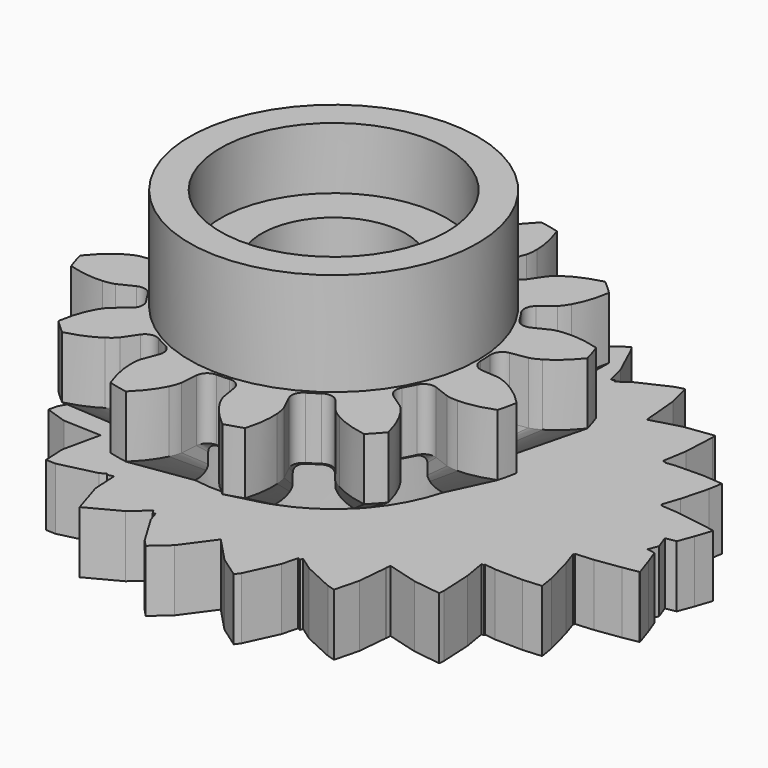
from build123d import *

# Parameters (mm, degrees)
CYLINDER004_R     = 5.5
CYLINDER004_DEPTH = 3
CYLINDER002_R     = 3.5
CYLINDER002_DEPTH = 20
CYLINDER005_R     = 5.5
CYLINDER005_DEPTH = 3
CYLINDER003_R     = 7
CYLINDER003_DEPTH = 13
PAD006_DEPTH      = 3


with BuildPart() as bearingcutouttop:
    # Cylinder004 → Cylinder004 (new body)
    with BuildSketch(Plane(origin=(-24, 0, 10), x_dir=(1, 0, 0), z_dir=(0, 0, 1))):
        Circle(CYLINDER004_R)
    extrude(amount=CYLINDER004_DEPTH)


with BuildPart() as axlecutout:
    # Cylinder002 → Cylinder002 (new body)
    with BuildSketch(Plane(origin=(-24, 0, 0), x_dir=(1, 0, 0), z_dir=(0, 0, 1))):
        Circle(CYLINDER002_R)
    extrude(amount=CYLINDER002_DEPTH)


with BuildPart() as cutouts:
    # Cylinder005 → Cylinder005 (new body)
    with BuildSketch(Plane(origin=(-24, 0, 0), x_dir=(1, 0, 0), z_dir=(0, 0, 1))):
        Circle(CYLINDER005_R)
    extrude(amount=CYLINDER005_DEPTH)

    # Fusion004: union bearingCutoutTop, axleCutout
    add(bearingcutouttop.part)
    add(axlecutout.part)


with BuildPart() as topgear:
    # InvoluteGear008 → Loft001 section 0
    with BuildSketch(Plane(origin=(-24, 0, 3), x_dir=(0.953717, 0.300706, 0), z_dir=(0, 0, 1))):
        with BuildLine():
            Line((5.057029, -0.742605), (5.594228, -0.820664))
            add(Edge.make_bspline(
                [(5.594228, -0.820664), (5.635581, -0.823609), (5.759738, -0.82636), (5.968462, -0.778836)],
                knots=[0, 0, 0, 0, 1, 1, 1, 1], degree=3))
            add(Edge.make_bspline(
                [(5.968462, -0.778836), (6.216913, -0.72081), (6.57069, -0.59196), (6.994514, -0.309757)],
                knots=[0, 0, 0, 0, 1, 1, 1, 1], degree=3))
            ThreePointArc((6.994514, -0.309757), (7.00137, 0), (6.994514, 0.309757))
            add(Edge.make_bspline(
                [(6.994514, 0.309757), (6.57069, 0.59196), (6.216913, 0.72081), (5.968462, 0.778836)],
                knots=[0, 0, 0, 0, 1, 1, 1, 1], degree=3))
            add(Edge.make_bspline(
                [(5.968462, 0.778836), (5.759738, 0.82636), (5.635581, 0.823609), (5.594228, 0.820664)],
                knots=[0, 0, 0, 0, 1, 1, 1, 1], degree=3))
            Line((5.594228, 0.820664), (5.057029, 0.742605))
            ThreePointArc((5.057029, 0.742605), (4.790267, 0.804493), (4.636707, 1.031234))
            ThreePointArc((4.636707, 1.031234), (4.588148, 1.22939), (4.531124, 1.425279))
            ThreePointArc((4.531124, 1.425279), (4.550739, 1.698422), (4.750818, 1.885399))
            Line((4.750818, 1.885399), (5.255075, 2.086398))
            add(Edge.make_bspline(
                [(5.255075, 2.086398), (5.292361, 2.104524), (5.401259, 2.16422), (5.558258, 2.309739)],
                knots=[0, 0, 0, 0, 1, 1, 1, 1], degree=3))
            add(Edge.make_bspline(
                [(5.558258, 2.309739), (5.74441, 2.484217), (5.986365, 2.772692), (6.212305, 3.229)],
                knots=[0, 0, 0, 0, 1, 1, 1, 1], degree=3))
            ThreePointArc((6.212305, 3.229), (6.063365, 3.500685), (5.902548, 3.765514))
            add(Edge.make_bspline(
                [(5.902548, 3.765514), (5.394404, 3.797998), (5.0236, 3.732696), (4.779422, 3.658723)],
                knots=[0, 0, 0, 0, 1, 1, 1, 1], degree=3))
            add(Edge.make_bspline(
                [(4.779422, 3.658723), (4.574899, 3.595517), (4.468752, 3.531057), (4.434411, 3.50783)],
                knots=[0, 0, 0, 0, 1, 1, 1, 1], degree=3))
            Line((4.434411, 3.50783), (4.008213, 3.171629))
            ThreePointArc((4.008213, 3.171629), (3.746246, 3.091845), (3.499889, 3.211429))
            ThreePointArc((3.499889, 3.211429), (3.358757, 3.358757), (3.211429, 3.499889))
            ThreePointArc((3.211429, 3.499889), (3.091845, 3.746246), (3.171629, 4.008213))
            Line((3.171629, 4.008213), (3.50783, 4.434411))
            add(Edge.make_bspline(
                [(3.50783, 4.434411), (3.531057, 4.468752), (3.595517, 4.574899), (3.658723, 4.779422)],
                knots=[0, 0, 0, 0, 1, 1, 1, 1], degree=3))
            add(Edge.make_bspline(
                [(3.658723, 4.779422), (3.732696, 5.0236), (3.797998, 5.394404), (3.765514, 5.902548)],
                knots=[0, 0, 0, 0, 1, 1, 1, 1], degree=3))
            ThreePointArc((3.765514, 5.902548), (3.500685, 6.063365), (3.229, 6.212305))
            add(Edge.make_bspline(
                [(3.229, 6.212305), (2.772692, 5.986365), (2.484217, 5.74441), (2.309739, 5.558258)],
                knots=[0, 0, 0, 0, 1, 1, 1, 1], degree=3))
            add(Edge.make_bspline(
                [(2.309739, 5.558258), (2.16422, 5.401259), (2.104524, 5.292361), (2.086398, 5.255075)],
                knots=[0, 0, 0, 0, 1, 1, 1, 1], degree=3))
            Line((2.086398, 5.255075), (1.885399, 4.750818))
            ThreePointArc((1.885399, 4.750818), (1.698422, 4.550739), (1.425279, 4.531124))
            ThreePointArc((1.425279, 4.531124), (1.22939, 4.588148), (1.031234, 4.636707))
            ThreePointArc((1.031234, 4.636707), (0.804493, 4.790267), (0.742605, 5.057029))
            Line((0.742605, 5.057029), (0.820664, 5.594228))
            add(Edge.make_bspline(
                [(0.820664, 5.594228), (0.823609, 5.635581), (0.82636, 5.759738), (0.778836, 5.968462)],
                knots=[0, 0, 0, 0, 1, 1, 1, 1], degree=3))
            add(Edge.make_bspline(
                [(0.778836, 5.968462), (0.72081, 6.216913), (0.59196, 6.57069), (0.309757, 6.994514)],
                knots=[0, 0, 0, 0, 1, 1, 1, 1], degree=3))
            ThreePointArc((0.309757, 6.994514), (0, 7.00137), (-0.309757, 6.994514))
            add(Edge.make_bspline(
                [(-0.309757, 6.994514), (-0.59196, 6.57069), (-0.72081, 6.216913), (-0.778836, 5.968462)],
                knots=[0, 0, 0, 0, 1, 1, 1, 1], degree=3))
            add(Edge.make_bspline(
                [(-0.778836, 5.968462), (-0.82636, 5.759738), (-0.823609, 5.635581), (-0.820664, 5.594228)],
                knots=[0, 0, 0, 0, 1, 1, 1, 1], degree=3))
            Line((-0.820664, 5.594228), (-0.742605, 5.057029))
            ThreePointArc((-0.742605, 5.057029), (-0.804493, 4.790267), (-1.031234, 4.636707))
            ThreePointArc((-1.031234, 4.636707), (-1.22939, 4.588148), (-1.425279, 4.531124))
            ThreePointArc((-1.425279, 4.531124), (-1.698422, 4.550739), (-1.885399, 4.750818))
            Line((-1.885399, 4.750818), (-2.086398, 5.255075))
            add(Edge.make_bspline(
                [(-2.086398, 5.255075), (-2.104524, 5.292361), (-2.16422, 5.401259), (-2.309739, 5.558258)],
                knots=[0, 0, 0, 0, 1, 1, 1, 1], degree=3))
            add(Edge.make_bspline(
                [(-2.309739, 5.558258), (-2.484217, 5.74441), (-2.772692, 5.986365), (-3.229, 6.212305)],
                knots=[0, 0, 0, 0, 1, 1, 1, 1], degree=3))
            ThreePointArc((-3.229, 6.212305), (-3.500685, 6.063365), (-3.765514, 5.902548))
            add(Edge.make_bspline(
                [(-3.765514, 5.902548), (-3.797998, 5.394404), (-3.732696, 5.0236), (-3.658723, 4.779422)],
                knots=[0, 0, 0, 0, 1, 1, 1, 1], degree=3))
            add(Edge.make_bspline(
                [(-3.658723, 4.779422), (-3.595517, 4.574899), (-3.531057, 4.468752), (-3.50783, 4.434411)],
                knots=[0, 0, 0, 0, 1, 1, 1, 1], degree=3))
            Line((-3.50783, 4.434411), (-3.171629, 4.008213))
            ThreePointArc((-3.171629, 4.008213), (-3.091845, 3.746246), (-3.211429, 3.499889))
            ThreePointArc((-3.211429, 3.499889), (-3.358757, 3.358757), (-3.499889, 3.211429))
            ThreePointArc((-3.499889, 3.211429), (-3.746246, 3.091845), (-4.008213, 3.171629))
            Line((-4.008213, 3.171629), (-4.434411, 3.50783))
            add(Edge.make_bspline(
                [(-4.434411, 3.50783), (-4.468752, 3.531057), (-4.574899, 3.595517), (-4.779422, 3.658723)],
                knots=[0, 0, 0, 0, 1, 1, 1, 1], degree=3))
            add(Edge.make_bspline(
                [(-4.779422, 3.658723), (-5.0236, 3.732696), (-5.394404, 3.797998), (-5.902548, 3.765514)],
                knots=[0, 0, 0, 0, 1, 1, 1, 1], degree=3))
            ThreePointArc((-5.902548, 3.765514), (-6.063365, 3.500685), (-6.212305, 3.229))
            add(Edge.make_bspline(
                [(-6.212305, 3.229), (-5.986365, 2.772692), (-5.74441, 2.484217), (-5.558258, 2.309739)],
                knots=[0, 0, 0, 0, 1, 1, 1, 1], degree=3))
            add(Edge.make_bspline(
                [(-5.558258, 2.309739), (-5.401259, 2.16422), (-5.292361, 2.104524), (-5.255075, 2.086398)],
                knots=[0, 0, 0, 0, 1, 1, 1, 1], degree=3))
            Line((-5.255075, 2.086398), (-4.750818, 1.885399))
            ThreePointArc((-4.750818, 1.885399), (-4.550739, 1.698422), (-4.531124, 1.425279))
            ThreePointArc((-4.531124, 1.425279), (-4.588148, 1.22939), (-4.636707, 1.031234))
            ThreePointArc((-4.636707, 1.031234), (-4.790267, 0.804493), (-5.057029, 0.742605))
            Line((-5.057029, 0.742605), (-5.594228, 0.820664))
            add(Edge.make_bspline(
                [(-5.594228, 0.820664), (-5.635581, 0.823609), (-5.759738, 0.82636), (-5.968462, 0.778836)],
                knots=[0, 0, 0, 0, 1, 1, 1, 1], degree=3))
            add(Edge.make_bspline(
                [(-5.968462, 0.778836), (-6.216913, 0.72081), (-6.57069, 0.59196), (-6.994514, 0.309757)],
                knots=[0, 0, 0, 0, 1, 1, 1, 1], degree=3))
            ThreePointArc((-6.994514, 0.309757), (-7.00137, 0), (-6.994514, -0.309757))
            add(Edge.make_bspline(
                [(-6.994514, -0.309757), (-6.57069, -0.59196), (-6.216913, -0.72081), (-5.968462, -0.778836)],
                knots=[0, 0, 0, 0, 1, 1, 1, 1], degree=3))
            add(Edge.make_bspline(
                [(-5.968462, -0.778836), (-5.759738, -0.82636), (-5.635581, -0.823609), (-5.594228, -0.820664)],
                knots=[0, 0, 0, 0, 1, 1, 1, 1], degree=3))
            Line((-5.594228, -0.820664), (-5.057029, -0.742605))
            ThreePointArc((-5.057029, -0.742605), (-4.790267, -0.804493), (-4.636707, -1.031234))
            ThreePointArc((-4.636707, -1.031234), (-4.588148, -1.22939), (-4.531124, -1.425279))
            ThreePointArc((-4.531124, -1.425279), (-4.550739, -1.698422), (-4.750818, -1.885399))
            Line((-4.750818, -1.885399), (-5.255075, -2.086398))
            add(Edge.make_bspline(
                [(-5.255075, -2.086398), (-5.292361, -2.104524), (-5.401259, -2.16422), (-5.558258, -2.309739)],
                knots=[0, 0, 0, 0, 1, 1, 1, 1], degree=3))
            add(Edge.make_bspline(
                [(-5.558258, -2.309739), (-5.74441, -2.484217), (-5.986365, -2.772692), (-6.212305, -3.229)],
                knots=[0, 0, 0, 0, 1, 1, 1, 1], degree=3))
            ThreePointArc((-6.212305, -3.229), (-6.063365, -3.500685), (-5.902548, -3.765514))
            add(Edge.make_bspline(
                [(-5.902548, -3.765514), (-5.394404, -3.797998), (-5.0236, -3.732696), (-4.779422, -3.658723)],
                knots=[0, 0, 0, 0, 1, 1, 1, 1], degree=3))
            add(Edge.make_bspline(
                [(-4.779422, -3.658723), (-4.574899, -3.595517), (-4.468752, -3.531057), (-4.434411, -3.50783)],
                knots=[0, 0, 0, 0, 1, 1, 1, 1], degree=3))
            Line((-4.434411, -3.50783), (-4.008213, -3.171629))
            ThreePointArc((-4.008213, -3.171629), (-3.746246, -3.091845), (-3.499889, -3.211429))
            ThreePointArc((-3.499889, -3.211429), (-3.358757, -3.358757), (-3.211429, -3.499889))
            ThreePointArc((-3.211429, -3.499889), (-3.091845, -3.746246), (-3.171629, -4.008213))
            Line((-3.171629, -4.008213), (-3.50783, -4.434411))
            add(Edge.make_bspline(
                [(-3.50783, -4.434411), (-3.531057, -4.468752), (-3.595517, -4.574899), (-3.658723, -4.779422)],
                knots=[0, 0, 0, 0, 1, 1, 1, 1], degree=3))
            add(Edge.make_bspline(
                [(-3.658723, -4.779422), (-3.732696, -5.0236), (-3.797998, -5.394404), (-3.765514, -5.902548)],
                knots=[0, 0, 0, 0, 1, 1, 1, 1], degree=3))
            ThreePointArc((-3.765514, -5.902548), (-3.500685, -6.063365), (-3.229, -6.212305))
            add(Edge.make_bspline(
                [(-3.229, -6.212305), (-2.772692, -5.986365), (-2.484217, -5.74441), (-2.309739, -5.558258)],
                knots=[0, 0, 0, 0, 1, 1, 1, 1], degree=3))
            add(Edge.make_bspline(
                [(-2.309739, -5.558258), (-2.16422, -5.401259), (-2.104524, -5.292361), (-2.086398, -5.255075)],
                knots=[0, 0, 0, 0, 1, 1, 1, 1], degree=3))
            Line((-2.086398, -5.255075), (-1.885399, -4.750818))
            ThreePointArc((-1.885399, -4.750818), (-1.698422, -4.550739), (-1.425279, -4.531124))
            ThreePointArc((-1.425279, -4.531124), (-1.22939, -4.588148), (-1.031234, -4.636707))
            ThreePointArc((-1.031234, -4.636707), (-0.804493, -4.790267), (-0.742605, -5.057029))
            Line((-0.742605, -5.057029), (-0.820664, -5.594228))
            add(Edge.make_bspline(
                [(-0.820664, -5.594228), (-0.823609, -5.635581), (-0.82636, -5.759738), (-0.778836, -5.968462)],
                knots=[0, 0, 0, 0, 1, 1, 1, 1], degree=3))
            add(Edge.make_bspline(
                [(-0.778836, -5.968462), (-0.72081, -6.216913), (-0.59196, -6.57069), (-0.309757, -6.994514)],
                knots=[0, 0, 0, 0, 1, 1, 1, 1], degree=3))
            ThreePointArc((-0.309757, -6.994514), (0, -7.00137), (0.309757, -6.994514))
            add(Edge.make_bspline(
                [(0.309757, -6.994514), (0.59196, -6.57069), (0.72081, -6.216913), (0.778836, -5.968462)],
                knots=[0, 0, 0, 0, 1, 1, 1, 1], degree=3))
            add(Edge.make_bspline(
                [(0.778836, -5.968462), (0.82636, -5.759738), (0.823609, -5.635581), (0.820664, -5.594228)],
                knots=[0, 0, 0, 0, 1, 1, 1, 1], degree=3))
            Line((0.820664, -5.594228), (0.742605, -5.057029))
            ThreePointArc((0.742605, -5.057029), (0.804493, -4.790267), (1.031234, -4.636707))
            ThreePointArc((1.031234, -4.636707), (1.22939, -4.588148), (1.425279, -4.531124))
            ThreePointArc((1.425279, -4.531124), (1.698422, -4.550739), (1.885399, -4.750818))
            Line((1.885399, -4.750818), (2.086398, -5.255075))
            add(Edge.make_bspline(
                [(2.086398, -5.255075), (2.104524, -5.292361), (2.16422, -5.401259), (2.309739, -5.558258)],
                knots=[0, 0, 0, 0, 1, 1, 1, 1], degree=3))
            add(Edge.make_bspline(
                [(2.309739, -5.558258), (2.484217, -5.74441), (2.772692, -5.986365), (3.229, -6.212305)],
                knots=[0, 0, 0, 0, 1, 1, 1, 1], degree=3))
            ThreePointArc((3.229, -6.212305), (3.500685, -6.063365), (3.765514, -5.902548))
            add(Edge.make_bspline(
                [(3.765514, -5.902548), (3.797998, -5.394404), (3.732696, -5.0236), (3.658723, -4.779422)],
                knots=[0, 0, 0, 0, 1, 1, 1, 1], degree=3))
            add(Edge.make_bspline(
                [(3.658723, -4.779422), (3.595517, -4.574899), (3.531057, -4.468752), (3.50783, -4.434411)],
                knots=[0, 0, 0, 0, 1, 1, 1, 1], degree=3))
            Line((3.50783, -4.434411), (3.171629, -4.008213))
            ThreePointArc((3.171629, -4.008213), (3.091845, -3.746246), (3.211429, -3.499889))
            ThreePointArc((3.211429, -3.499889), (3.358757, -3.358757), (3.499889, -3.211429))
            ThreePointArc((3.499889, -3.211429), (3.746246, -3.091845), (4.008213, -3.171629))
            Line((4.008213, -3.171629), (4.434411, -3.50783))
            add(Edge.make_bspline(
                [(4.434411, -3.50783), (4.468752, -3.531057), (4.574899, -3.595517), (4.779422, -3.658723)],
                knots=[0, 0, 0, 0, 1, 1, 1, 1], degree=3))
            add(Edge.make_bspline(
                [(4.779422, -3.658723), (5.0236, -3.732696), (5.394404, -3.797998), (5.902548, -3.765514)],
                knots=[0, 0, 0, 0, 1, 1, 1, 1], degree=3))
            ThreePointArc((5.902548, -3.765514), (6.063365, -3.500685), (6.212305, -3.229))
            add(Edge.make_bspline(
                [(6.212305, -3.229), (5.986365, -2.772692), (5.74441, -2.484217), (5.558258, -2.309739)],
                knots=[0, 0, 0, 0, 1, 1, 1, 1], degree=3))
            add(Edge.make_bspline(
                [(5.558258, -2.309739), (5.401259, -2.16422), (5.292361, -2.104524), (5.255075, -2.086398)],
                knots=[0, 0, 0, 0, 1, 1, 1, 1], degree=3))
            Line((5.255075, -2.086398), (4.750818, -1.885399))
            ThreePointArc((4.750818, -1.885399), (4.550739, -1.698422), (4.531124, -1.425279))
            ThreePointArc((4.531124, -1.425279), (4.588148, -1.22939), (4.636707, -1.031234))
            ThreePointArc((4.636707, -1.031234), (4.790267, -0.804493), (5.057029, -0.742605))
        make_face()
    # InvoluteGear007 → Loft001 section 1
    with BuildSketch(Plane(origin=(-24, 0, 5), x_dir=(0.953717, 0.300706, 0), z_dir=(0, 0, 1))):
        with BuildLine():
            Line((7.585543, -1.113908), (8.391342, -1.230997))
            add(Edge.make_bspline(
                [(8.391342, -1.230997), (8.453372, -1.235413), (8.639606, -1.239539), (8.952693, -1.168255)],
                knots=[0, 0, 0, 0, 1, 1, 1, 1], degree=3))
            add(Edge.make_bspline(
                [(8.952693, -1.168255), (9.32537, -1.081215), (9.856035, -0.88794), (10.49177, -0.464635)],
                knots=[0, 0, 0, 0, 1, 1, 1, 1], degree=3))
            ThreePointArc((10.49177, -0.464635), (10.502056, 0), (10.49177, 0.464635))
            add(Edge.make_bspline(
                [(10.49177, 0.464635), (9.856035, 0.88794), (9.32537, 1.081215), (8.952693, 1.168255)],
                knots=[0, 0, 0, 0, 1, 1, 1, 1], degree=3))
            add(Edge.make_bspline(
                [(8.952693, 1.168255), (8.639606, 1.239539), (8.453372, 1.235413), (8.391342, 1.230997)],
                knots=[0, 0, 0, 0, 1, 1, 1, 1], degree=3))
            Line((8.391342, 1.230997), (7.585543, 1.113908))
            ThreePointArc((7.585543, 1.113908), (7.1854, 1.20674), (6.955061, 1.546852))
            ThreePointArc((6.955061, 1.546852), (6.882222, 1.844086), (6.796685, 2.137918))
            ThreePointArc((6.796685, 2.137918), (6.826109, 2.547633), (7.126227, 2.828099))
            Line((7.126227, 2.828099), (7.882613, 3.129596))
            add(Edge.make_bspline(
                [(7.882613, 3.129596), (7.938542, 3.156787), (8.101888, 3.246331), (8.337387, 3.464608)],
                knots=[0, 0, 0, 0, 1, 1, 1, 1], degree=3))
            add(Edge.make_bspline(
                [(8.337387, 3.464608), (8.616615, 3.726326), (8.979547, 4.159039), (9.318457, 4.8435)],
                knots=[0, 0, 0, 0, 1, 1, 1, 1], degree=3))
            ThreePointArc((9.318457, 4.8435), (9.095047, 5.251028), (8.853822, 5.648271))
            add(Edge.make_bspline(
                [(8.853822, 5.648271), (8.091607, 5.696996), (7.5354, 5.599044), (7.169132, 5.488085)],
                knots=[0, 0, 0, 0, 1, 1, 1, 1], degree=3))
            add(Edge.make_bspline(
                [(7.169132, 5.488085), (6.862349, 5.393276), (6.703128, 5.296585), (6.651617, 5.261745)],
                knots=[0, 0, 0, 0, 1, 1, 1, 1], degree=3))
            Line((6.651617, 5.261745), (6.012319, 4.757444))
            ThreePointArc((6.012319, 4.757444), (5.619369, 4.637767), (5.249834, 4.817143))
            ThreePointArc((5.249834, 4.817143), (5.038136, 5.038136), (4.817143, 5.249834))
            ThreePointArc((4.817143, 5.249834), (4.637767, 5.619369), (4.757444, 6.012319))
            Line((4.757444, 6.012319), (5.261745, 6.651617))
            add(Edge.make_bspline(
                [(5.261745, 6.651617), (5.296585, 6.703128), (5.393276, 6.862349), (5.488085, 7.169132)],
                knots=[0, 0, 0, 0, 1, 1, 1, 1], degree=3))
            add(Edge.make_bspline(
                [(5.488085, 7.169132), (5.599044, 7.5354), (5.696996, 8.091607), (5.648271, 8.853822)],
                knots=[0, 0, 0, 0, 1, 1, 1, 1], degree=3))
            ThreePointArc((5.648271, 8.853822), (5.251028, 9.095047), (4.8435, 9.318457))
            add(Edge.make_bspline(
                [(4.8435, 9.318457), (4.159039, 8.979547), (3.726326, 8.616615), (3.464608, 8.337387)],
                knots=[0, 0, 0, 0, 1, 1, 1, 1], degree=3))
            add(Edge.make_bspline(
                [(3.464608, 8.337387), (3.246331, 8.101888), (3.156787, 7.938542), (3.129596, 7.882613)],
                knots=[0, 0, 0, 0, 1, 1, 1, 1], degree=3))
            Line((3.129596, 7.882613), (2.828099, 7.126227))
            ThreePointArc((2.828099, 7.126227), (2.547633, 6.826109), (2.137918, 6.796685))
            ThreePointArc((2.137918, 6.796685), (1.844086, 6.882222), (1.546852, 6.955061))
            ThreePointArc((1.546852, 6.955061), (1.20674, 7.1854), (1.113908, 7.585543))
            Line((1.113908, 7.585543), (1.230997, 8.391342))
            add(Edge.make_bspline(
                [(1.230997, 8.391342), (1.235413, 8.453372), (1.239539, 8.639606), (1.168255, 8.952693)],
                knots=[0, 0, 0, 0, 1, 1, 1, 1], degree=3))
            add(Edge.make_bspline(
                [(1.168255, 8.952693), (1.081215, 9.32537), (0.88794, 9.856035), (0.464635, 10.49177)],
                knots=[0, 0, 0, 0, 1, 1, 1, 1], degree=3))
            ThreePointArc((0.464635, 10.49177), (0, 10.502056), (-0.464635, 10.49177))
            add(Edge.make_bspline(
                [(-0.464635, 10.49177), (-0.88794, 9.856035), (-1.081215, 9.32537), (-1.168255, 8.952693)],
                knots=[0, 0, 0, 0, 1, 1, 1, 1], degree=3))
            add(Edge.make_bspline(
                [(-1.168255, 8.952693), (-1.239539, 8.639606), (-1.235413, 8.453372), (-1.230997, 8.391342)],
                knots=[0, 0, 0, 0, 1, 1, 1, 1], degree=3))
            Line((-1.230997, 8.391342), (-1.113908, 7.585543))
            ThreePointArc((-1.113908, 7.585543), (-1.20674, 7.1854), (-1.546852, 6.955061))
            ThreePointArc((-1.546852, 6.955061), (-1.844086, 6.882222), (-2.137918, 6.796685))
            ThreePointArc((-2.137918, 6.796685), (-2.547633, 6.826109), (-2.828099, 7.126227))
            Line((-2.828099, 7.126227), (-3.129596, 7.882613))
            add(Edge.make_bspline(
                [(-3.129596, 7.882613), (-3.156787, 7.938542), (-3.246331, 8.101888), (-3.464608, 8.337387)],
                knots=[0, 0, 0, 0, 1, 1, 1, 1], degree=3))
            add(Edge.make_bspline(
                [(-3.464608, 8.337387), (-3.726326, 8.616615), (-4.159039, 8.979547), (-4.8435, 9.318457)],
                knots=[0, 0, 0, 0, 1, 1, 1, 1], degree=3))
            ThreePointArc((-4.8435, 9.318457), (-5.251028, 9.095047), (-5.648271, 8.853822))
            add(Edge.make_bspline(
                [(-5.648271, 8.853822), (-5.696996, 8.091607), (-5.599044, 7.5354), (-5.488085, 7.169132)],
                knots=[0, 0, 0, 0, 1, 1, 1, 1], degree=3))
            add(Edge.make_bspline(
                [(-5.488085, 7.169132), (-5.393276, 6.862349), (-5.296585, 6.703128), (-5.261745, 6.651617)],
                knots=[0, 0, 0, 0, 1, 1, 1, 1], degree=3))
            Line((-5.261745, 6.651617), (-4.757444, 6.012319))
            ThreePointArc((-4.757444, 6.012319), (-4.637767, 5.619369), (-4.817143, 5.249834))
            ThreePointArc((-4.817143, 5.249834), (-5.038136, 5.038136), (-5.249834, 4.817143))
            ThreePointArc((-5.249834, 4.817143), (-5.619369, 4.637767), (-6.012319, 4.757444))
            Line((-6.012319, 4.757444), (-6.651617, 5.261745))
            add(Edge.make_bspline(
                [(-6.651617, 5.261745), (-6.703128, 5.296585), (-6.862349, 5.393276), (-7.169132, 5.488085)],
                knots=[0, 0, 0, 0, 1, 1, 1, 1], degree=3))
            add(Edge.make_bspline(
                [(-7.169132, 5.488085), (-7.5354, 5.599044), (-8.091607, 5.696996), (-8.853822, 5.648271)],
                knots=[0, 0, 0, 0, 1, 1, 1, 1], degree=3))
            ThreePointArc((-8.853822, 5.648271), (-9.095047, 5.251028), (-9.318457, 4.8435))
            add(Edge.make_bspline(
                [(-9.318457, 4.8435), (-8.979547, 4.159039), (-8.616615, 3.726326), (-8.337387, 3.464608)],
                knots=[0, 0, 0, 0, 1, 1, 1, 1], degree=3))
            add(Edge.make_bspline(
                [(-8.337387, 3.464608), (-8.101888, 3.246331), (-7.938542, 3.156787), (-7.882613, 3.129596)],
                knots=[0, 0, 0, 0, 1, 1, 1, 1], degree=3))
            Line((-7.882613, 3.129596), (-7.126227, 2.828099))
            ThreePointArc((-7.126227, 2.828099), (-6.826109, 2.547633), (-6.796685, 2.137918))
            ThreePointArc((-6.796685, 2.137918), (-6.882222, 1.844086), (-6.955061, 1.546852))
            ThreePointArc((-6.955061, 1.546852), (-7.1854, 1.20674), (-7.585543, 1.113908))
            Line((-7.585543, 1.113908), (-8.391342, 1.230997))
            add(Edge.make_bspline(
                [(-8.391342, 1.230997), (-8.453372, 1.235413), (-8.639606, 1.239539), (-8.952693, 1.168255)],
                knots=[0, 0, 0, 0, 1, 1, 1, 1], degree=3))
            add(Edge.make_bspline(
                [(-8.952693, 1.168255), (-9.32537, 1.081215), (-9.856035, 0.88794), (-10.49177, 0.464635)],
                knots=[0, 0, 0, 0, 1, 1, 1, 1], degree=3))
            ThreePointArc((-10.49177, 0.464635), (-10.502056, 0), (-10.49177, -0.464635))
            add(Edge.make_bspline(
                [(-10.49177, -0.464635), (-9.856035, -0.88794), (-9.32537, -1.081215), (-8.952693, -1.168255)],
                knots=[0, 0, 0, 0, 1, 1, 1, 1], degree=3))
            add(Edge.make_bspline(
                [(-8.952693, -1.168255), (-8.639606, -1.239539), (-8.453372, -1.235413), (-8.391342, -1.230997)],
                knots=[0, 0, 0, 0, 1, 1, 1, 1], degree=3))
            Line((-8.391342, -1.230997), (-7.585543, -1.113908))
            ThreePointArc((-7.585543, -1.113908), (-7.1854, -1.20674), (-6.955061, -1.546852))
            ThreePointArc((-6.955061, -1.546852), (-6.882222, -1.844086), (-6.796685, -2.137918))
            ThreePointArc((-6.796685, -2.137918), (-6.826109, -2.547633), (-7.126227, -2.828099))
            Line((-7.126227, -2.828099), (-7.882613, -3.129596))
            add(Edge.make_bspline(
                [(-7.882613, -3.129596), (-7.938542, -3.156787), (-8.101888, -3.246331), (-8.337387, -3.464608)],
                knots=[0, 0, 0, 0, 1, 1, 1, 1], degree=3))
            add(Edge.make_bspline(
                [(-8.337387, -3.464608), (-8.616615, -3.726326), (-8.979547, -4.159039), (-9.318457, -4.8435)],
                knots=[0, 0, 0, 0, 1, 1, 1, 1], degree=3))
            ThreePointArc((-9.318457, -4.8435), (-9.095047, -5.251028), (-8.853822, -5.648271))
            add(Edge.make_bspline(
                [(-8.853822, -5.648271), (-8.091607, -5.696996), (-7.5354, -5.599044), (-7.169132, -5.488085)],
                knots=[0, 0, 0, 0, 1, 1, 1, 1], degree=3))
            add(Edge.make_bspline(
                [(-7.169132, -5.488085), (-6.862349, -5.393276), (-6.703128, -5.296585), (-6.651617, -5.261745)],
                knots=[0, 0, 0, 0, 1, 1, 1, 1], degree=3))
            Line((-6.651617, -5.261745), (-6.012319, -4.757444))
            ThreePointArc((-6.012319, -4.757444), (-5.619369, -4.637767), (-5.249834, -4.817143))
            ThreePointArc((-5.249834, -4.817143), (-5.038136, -5.038136), (-4.817143, -5.249834))
            ThreePointArc((-4.817143, -5.249834), (-4.637767, -5.619369), (-4.757444, -6.012319))
            Line((-4.757444, -6.012319), (-5.261745, -6.651617))
            add(Edge.make_bspline(
                [(-5.261745, -6.651617), (-5.296585, -6.703128), (-5.393276, -6.862349), (-5.488085, -7.169132)],
                knots=[0, 0, 0, 0, 1, 1, 1, 1], degree=3))
            add(Edge.make_bspline(
                [(-5.488085, -7.169132), (-5.599044, -7.5354), (-5.696996, -8.091607), (-5.648271, -8.853822)],
                knots=[0, 0, 0, 0, 1, 1, 1, 1], degree=3))
            ThreePointArc((-5.648271, -8.853822), (-5.251028, -9.095047), (-4.8435, -9.318457))
            add(Edge.make_bspline(
                [(-4.8435, -9.318457), (-4.159039, -8.979547), (-3.726326, -8.616615), (-3.464608, -8.337387)],
                knots=[0, 0, 0, 0, 1, 1, 1, 1], degree=3))
            add(Edge.make_bspline(
                [(-3.464608, -8.337387), (-3.246331, -8.101888), (-3.156787, -7.938542), (-3.129596, -7.882613)],
                knots=[0, 0, 0, 0, 1, 1, 1, 1], degree=3))
            Line((-3.129596, -7.882613), (-2.828099, -7.126227))
            ThreePointArc((-2.828099, -7.126227), (-2.547633, -6.826109), (-2.137918, -6.796685))
            ThreePointArc((-2.137918, -6.796685), (-1.844086, -6.882222), (-1.546852, -6.955061))
            ThreePointArc((-1.546852, -6.955061), (-1.20674, -7.1854), (-1.113908, -7.585543))
            Line((-1.113908, -7.585543), (-1.230997, -8.391342))
            add(Edge.make_bspline(
                [(-1.230997, -8.391342), (-1.235413, -8.453372), (-1.239539, -8.639606), (-1.168255, -8.952693)],
                knots=[0, 0, 0, 0, 1, 1, 1, 1], degree=3))
            add(Edge.make_bspline(
                [(-1.168255, -8.952693), (-1.081215, -9.32537), (-0.88794, -9.856035), (-0.464635, -10.49177)],
                knots=[0, 0, 0, 0, 1, 1, 1, 1], degree=3))
            ThreePointArc((-0.464635, -10.49177), (0, -10.502056), (0.464635, -10.49177))
            add(Edge.make_bspline(
                [(0.464635, -10.49177), (0.88794, -9.856035), (1.081215, -9.32537), (1.168255, -8.952693)],
                knots=[0, 0, 0, 0, 1, 1, 1, 1], degree=3))
            add(Edge.make_bspline(
                [(1.168255, -8.952693), (1.239539, -8.639606), (1.235413, -8.453372), (1.230997, -8.391342)],
                knots=[0, 0, 0, 0, 1, 1, 1, 1], degree=3))
            Line((1.230997, -8.391342), (1.113908, -7.585543))
            ThreePointArc((1.113908, -7.585543), (1.20674, -7.1854), (1.546852, -6.955061))
            ThreePointArc((1.546852, -6.955061), (1.844086, -6.882222), (2.137918, -6.796685))
            ThreePointArc((2.137918, -6.796685), (2.547633, -6.826109), (2.828099, -7.126227))
            Line((2.828099, -7.126227), (3.129596, -7.882613))
            add(Edge.make_bspline(
                [(3.129596, -7.882613), (3.156787, -7.938542), (3.246331, -8.101888), (3.464608, -8.337387)],
                knots=[0, 0, 0, 0, 1, 1, 1, 1], degree=3))
            add(Edge.make_bspline(
                [(3.464608, -8.337387), (3.726326, -8.616615), (4.159039, -8.979547), (4.8435, -9.318457)],
                knots=[0, 0, 0, 0, 1, 1, 1, 1], degree=3))
            ThreePointArc((4.8435, -9.318457), (5.251028, -9.095047), (5.648271, -8.853822))
            add(Edge.make_bspline(
                [(5.648271, -8.853822), (5.696996, -8.091607), (5.599044, -7.5354), (5.488085, -7.169132)],
                knots=[0, 0, 0, 0, 1, 1, 1, 1], degree=3))
            add(Edge.make_bspline(
                [(5.488085, -7.169132), (5.393276, -6.862349), (5.296585, -6.703128), (5.261745, -6.651617)],
                knots=[0, 0, 0, 0, 1, 1, 1, 1], degree=3))
            Line((5.261745, -6.651617), (4.757444, -6.012319))
            ThreePointArc((4.757444, -6.012319), (4.637767, -5.619369), (4.817143, -5.249834))
            ThreePointArc((4.817143, -5.249834), (5.038136, -5.038136), (5.249834, -4.817143))
            ThreePointArc((5.249834, -4.817143), (5.619369, -4.637767), (6.012319, -4.757444))
            Line((6.012319, -4.757444), (6.651617, -5.261745))
            add(Edge.make_bspline(
                [(6.651617, -5.261745), (6.703128, -5.296585), (6.862349, -5.393276), (7.169132, -5.488085)],
                knots=[0, 0, 0, 0, 1, 1, 1, 1], degree=3))
            add(Edge.make_bspline(
                [(7.169132, -5.488085), (7.5354, -5.599044), (8.091607, -5.696996), (8.853822, -5.648271)],
                knots=[0, 0, 0, 0, 1, 1, 1, 1], degree=3))
            ThreePointArc((8.853822, -5.648271), (9.095047, -5.251028), (9.318457, -4.8435))
            add(Edge.make_bspline(
                [(9.318457, -4.8435), (8.979547, -4.159039), (8.616615, -3.726326), (8.337387, -3.464608)],
                knots=[0, 0, 0, 0, 1, 1, 1, 1], degree=3))
            add(Edge.make_bspline(
                [(8.337387, -3.464608), (8.101888, -3.246331), (7.938542, -3.156787), (7.882613, -3.129596)],
                knots=[0, 0, 0, 0, 1, 1, 1, 1], degree=3))
            Line((7.882613, -3.129596), (7.126227, -2.828099))
            ThreePointArc((7.126227, -2.828099), (6.826109, -2.547633), (6.796685, -2.137918))
            ThreePointArc((6.796685, -2.137918), (6.882222, -1.844086), (6.955061, -1.546852))
            ThreePointArc((6.955061, -1.546852), (7.1854, -1.20674), (7.585543, -1.113908))
        make_face()
    # InvoluteGear006 → Loft001 section 2
    with BuildSketch(Plane(origin=(-24, 0, 8), x_dir=(0.953717, 0.300706, 0), z_dir=(0, 0, 1))):
        with BuildLine():
            Line((7.585543, -1.113908), (8.391342, -1.230997))
            add(Edge.make_bspline(
                [(8.391342, -1.230997), (8.453372, -1.235413), (8.639606, -1.239539), (8.952693, -1.168255)],
                knots=[0, 0, 0, 0, 1, 1, 1, 1], degree=3))
            add(Edge.make_bspline(
                [(8.952693, -1.168255), (9.32537, -1.081215), (9.856035, -0.88794), (10.49177, -0.464635)],
                knots=[0, 0, 0, 0, 1, 1, 1, 1], degree=3))
            ThreePointArc((10.49177, -0.464635), (10.502056, 0), (10.49177, 0.464635))
            add(Edge.make_bspline(
                [(10.49177, 0.464635), (9.856035, 0.88794), (9.32537, 1.081215), (8.952693, 1.168255)],
                knots=[0, 0, 0, 0, 1, 1, 1, 1], degree=3))
            add(Edge.make_bspline(
                [(8.952693, 1.168255), (8.639606, 1.239539), (8.453372, 1.235413), (8.391342, 1.230997)],
                knots=[0, 0, 0, 0, 1, 1, 1, 1], degree=3))
            Line((8.391342, 1.230997), (7.585543, 1.113908))
            ThreePointArc((7.585543, 1.113908), (7.1854, 1.20674), (6.955061, 1.546852))
            ThreePointArc((6.955061, 1.546852), (6.882222, 1.844086), (6.796685, 2.137918))
            ThreePointArc((6.796685, 2.137918), (6.826109, 2.547633), (7.126227, 2.828099))
            Line((7.126227, 2.828099), (7.882613, 3.129596))
            add(Edge.make_bspline(
                [(7.882613, 3.129596), (7.938542, 3.156787), (8.101888, 3.246331), (8.337387, 3.464608)],
                knots=[0, 0, 0, 0, 1, 1, 1, 1], degree=3))
            add(Edge.make_bspline(
                [(8.337387, 3.464608), (8.616615, 3.726326), (8.979547, 4.159039), (9.318457, 4.8435)],
                knots=[0, 0, 0, 0, 1, 1, 1, 1], degree=3))
            ThreePointArc((9.318457, 4.8435), (9.095047, 5.251028), (8.853822, 5.648271))
            add(Edge.make_bspline(
                [(8.853822, 5.648271), (8.091607, 5.696996), (7.5354, 5.599044), (7.169132, 5.488085)],
                knots=[0, 0, 0, 0, 1, 1, 1, 1], degree=3))
            add(Edge.make_bspline(
                [(7.169132, 5.488085), (6.862349, 5.393276), (6.703128, 5.296585), (6.651617, 5.261745)],
                knots=[0, 0, 0, 0, 1, 1, 1, 1], degree=3))
            Line((6.651617, 5.261745), (6.012319, 4.757444))
            ThreePointArc((6.012319, 4.757444), (5.619369, 4.637767), (5.249834, 4.817143))
            ThreePointArc((5.249834, 4.817143), (5.038136, 5.038136), (4.817143, 5.249834))
            ThreePointArc((4.817143, 5.249834), (4.637767, 5.619369), (4.757444, 6.012319))
            Line((4.757444, 6.012319), (5.261745, 6.651617))
            add(Edge.make_bspline(
                [(5.261745, 6.651617), (5.296585, 6.703128), (5.393276, 6.862349), (5.488085, 7.169132)],
                knots=[0, 0, 0, 0, 1, 1, 1, 1], degree=3))
            add(Edge.make_bspline(
                [(5.488085, 7.169132), (5.599044, 7.5354), (5.696996, 8.091607), (5.648271, 8.853822)],
                knots=[0, 0, 0, 0, 1, 1, 1, 1], degree=3))
            ThreePointArc((5.648271, 8.853822), (5.251028, 9.095047), (4.8435, 9.318457))
            add(Edge.make_bspline(
                [(4.8435, 9.318457), (4.159039, 8.979547), (3.726326, 8.616615), (3.464608, 8.337387)],
                knots=[0, 0, 0, 0, 1, 1, 1, 1], degree=3))
            add(Edge.make_bspline(
                [(3.464608, 8.337387), (3.246331, 8.101888), (3.156787, 7.938542), (3.129596, 7.882613)],
                knots=[0, 0, 0, 0, 1, 1, 1, 1], degree=3))
            Line((3.129596, 7.882613), (2.828099, 7.126227))
            ThreePointArc((2.828099, 7.126227), (2.547633, 6.826109), (2.137918, 6.796685))
            ThreePointArc((2.137918, 6.796685), (1.844086, 6.882222), (1.546852, 6.955061))
            ThreePointArc((1.546852, 6.955061), (1.20674, 7.1854), (1.113908, 7.585543))
            Line((1.113908, 7.585543), (1.230997, 8.391342))
            add(Edge.make_bspline(
                [(1.230997, 8.391342), (1.235413, 8.453372), (1.239539, 8.639606), (1.168255, 8.952693)],
                knots=[0, 0, 0, 0, 1, 1, 1, 1], degree=3))
            add(Edge.make_bspline(
                [(1.168255, 8.952693), (1.081215, 9.32537), (0.88794, 9.856035), (0.464635, 10.49177)],
                knots=[0, 0, 0, 0, 1, 1, 1, 1], degree=3))
            ThreePointArc((0.464635, 10.49177), (0, 10.502056), (-0.464635, 10.49177))
            add(Edge.make_bspline(
                [(-0.464635, 10.49177), (-0.88794, 9.856035), (-1.081215, 9.32537), (-1.168255, 8.952693)],
                knots=[0, 0, 0, 0, 1, 1, 1, 1], degree=3))
            add(Edge.make_bspline(
                [(-1.168255, 8.952693), (-1.239539, 8.639606), (-1.235413, 8.453372), (-1.230997, 8.391342)],
                knots=[0, 0, 0, 0, 1, 1, 1, 1], degree=3))
            Line((-1.230997, 8.391342), (-1.113908, 7.585543))
            ThreePointArc((-1.113908, 7.585543), (-1.20674, 7.1854), (-1.546852, 6.955061))
            ThreePointArc((-1.546852, 6.955061), (-1.844086, 6.882222), (-2.137918, 6.796685))
            ThreePointArc((-2.137918, 6.796685), (-2.547633, 6.826109), (-2.828099, 7.126227))
            Line((-2.828099, 7.126227), (-3.129596, 7.882613))
            add(Edge.make_bspline(
                [(-3.129596, 7.882613), (-3.156787, 7.938542), (-3.246331, 8.101888), (-3.464608, 8.337387)],
                knots=[0, 0, 0, 0, 1, 1, 1, 1], degree=3))
            add(Edge.make_bspline(
                [(-3.464608, 8.337387), (-3.726326, 8.616615), (-4.159039, 8.979547), (-4.8435, 9.318457)],
                knots=[0, 0, 0, 0, 1, 1, 1, 1], degree=3))
            ThreePointArc((-4.8435, 9.318457), (-5.251028, 9.095047), (-5.648271, 8.853822))
            add(Edge.make_bspline(
                [(-5.648271, 8.853822), (-5.696996, 8.091607), (-5.599044, 7.5354), (-5.488085, 7.169132)],
                knots=[0, 0, 0, 0, 1, 1, 1, 1], degree=3))
            add(Edge.make_bspline(
                [(-5.488085, 7.169132), (-5.393276, 6.862349), (-5.296585, 6.703128), (-5.261745, 6.651617)],
                knots=[0, 0, 0, 0, 1, 1, 1, 1], degree=3))
            Line((-5.261745, 6.651617), (-4.757444, 6.012319))
            ThreePointArc((-4.757444, 6.012319), (-4.637767, 5.619369), (-4.817143, 5.249834))
            ThreePointArc((-4.817143, 5.249834), (-5.038136, 5.038136), (-5.249834, 4.817143))
            ThreePointArc((-5.249834, 4.817143), (-5.619369, 4.637767), (-6.012319, 4.757444))
            Line((-6.012319, 4.757444), (-6.651617, 5.261745))
            add(Edge.make_bspline(
                [(-6.651617, 5.261745), (-6.703128, 5.296585), (-6.862349, 5.393276), (-7.169132, 5.488085)],
                knots=[0, 0, 0, 0, 1, 1, 1, 1], degree=3))
            add(Edge.make_bspline(
                [(-7.169132, 5.488085), (-7.5354, 5.599044), (-8.091607, 5.696996), (-8.853822, 5.648271)],
                knots=[0, 0, 0, 0, 1, 1, 1, 1], degree=3))
            ThreePointArc((-8.853822, 5.648271), (-9.095047, 5.251028), (-9.318457, 4.8435))
            add(Edge.make_bspline(
                [(-9.318457, 4.8435), (-8.979547, 4.159039), (-8.616615, 3.726326), (-8.337387, 3.464608)],
                knots=[0, 0, 0, 0, 1, 1, 1, 1], degree=3))
            add(Edge.make_bspline(
                [(-8.337387, 3.464608), (-8.101888, 3.246331), (-7.938542, 3.156787), (-7.882613, 3.129596)],
                knots=[0, 0, 0, 0, 1, 1, 1, 1], degree=3))
            Line((-7.882613, 3.129596), (-7.126227, 2.828099))
            ThreePointArc((-7.126227, 2.828099), (-6.826109, 2.547633), (-6.796685, 2.137918))
            ThreePointArc((-6.796685, 2.137918), (-6.882222, 1.844086), (-6.955061, 1.546852))
            ThreePointArc((-6.955061, 1.546852), (-7.1854, 1.20674), (-7.585543, 1.113908))
            Line((-7.585543, 1.113908), (-8.391342, 1.230997))
            add(Edge.make_bspline(
                [(-8.391342, 1.230997), (-8.453372, 1.235413), (-8.639606, 1.239539), (-8.952693, 1.168255)],
                knots=[0, 0, 0, 0, 1, 1, 1, 1], degree=3))
            add(Edge.make_bspline(
                [(-8.952693, 1.168255), (-9.32537, 1.081215), (-9.856035, 0.88794), (-10.49177, 0.464635)],
                knots=[0, 0, 0, 0, 1, 1, 1, 1], degree=3))
            ThreePointArc((-10.49177, 0.464635), (-10.502056, 0), (-10.49177, -0.464635))
            add(Edge.make_bspline(
                [(-10.49177, -0.464635), (-9.856035, -0.88794), (-9.32537, -1.081215), (-8.952693, -1.168255)],
                knots=[0, 0, 0, 0, 1, 1, 1, 1], degree=3))
            add(Edge.make_bspline(
                [(-8.952693, -1.168255), (-8.639606, -1.239539), (-8.453372, -1.235413), (-8.391342, -1.230997)],
                knots=[0, 0, 0, 0, 1, 1, 1, 1], degree=3))
            Line((-8.391342, -1.230997), (-7.585543, -1.113908))
            ThreePointArc((-7.585543, -1.113908), (-7.1854, -1.20674), (-6.955061, -1.546852))
            ThreePointArc((-6.955061, -1.546852), (-6.882222, -1.844086), (-6.796685, -2.137918))
            ThreePointArc((-6.796685, -2.137918), (-6.826109, -2.547633), (-7.126227, -2.828099))
            Line((-7.126227, -2.828099), (-7.882613, -3.129596))
            add(Edge.make_bspline(
                [(-7.882613, -3.129596), (-7.938542, -3.156787), (-8.101888, -3.246331), (-8.337387, -3.464608)],
                knots=[0, 0, 0, 0, 1, 1, 1, 1], degree=3))
            add(Edge.make_bspline(
                [(-8.337387, -3.464608), (-8.616615, -3.726326), (-8.979547, -4.159039), (-9.318457, -4.8435)],
                knots=[0, 0, 0, 0, 1, 1, 1, 1], degree=3))
            ThreePointArc((-9.318457, -4.8435), (-9.095047, -5.251028), (-8.853822, -5.648271))
            add(Edge.make_bspline(
                [(-8.853822, -5.648271), (-8.091607, -5.696996), (-7.5354, -5.599044), (-7.169132, -5.488085)],
                knots=[0, 0, 0, 0, 1, 1, 1, 1], degree=3))
            add(Edge.make_bspline(
                [(-7.169132, -5.488085), (-6.862349, -5.393276), (-6.703128, -5.296585), (-6.651617, -5.261745)],
                knots=[0, 0, 0, 0, 1, 1, 1, 1], degree=3))
            Line((-6.651617, -5.261745), (-6.012319, -4.757444))
            ThreePointArc((-6.012319, -4.757444), (-5.619369, -4.637767), (-5.249834, -4.817143))
            ThreePointArc((-5.249834, -4.817143), (-5.038136, -5.038136), (-4.817143, -5.249834))
            ThreePointArc((-4.817143, -5.249834), (-4.637767, -5.619369), (-4.757444, -6.012319))
            Line((-4.757444, -6.012319), (-5.261745, -6.651617))
            add(Edge.make_bspline(
                [(-5.261745, -6.651617), (-5.296585, -6.703128), (-5.393276, -6.862349), (-5.488085, -7.169132)],
                knots=[0, 0, 0, 0, 1, 1, 1, 1], degree=3))
            add(Edge.make_bspline(
                [(-5.488085, -7.169132), (-5.599044, -7.5354), (-5.696996, -8.091607), (-5.648271, -8.853822)],
                knots=[0, 0, 0, 0, 1, 1, 1, 1], degree=3))
            ThreePointArc((-5.648271, -8.853822), (-5.251028, -9.095047), (-4.8435, -9.318457))
            add(Edge.make_bspline(
                [(-4.8435, -9.318457), (-4.159039, -8.979547), (-3.726326, -8.616615), (-3.464608, -8.337387)],
                knots=[0, 0, 0, 0, 1, 1, 1, 1], degree=3))
            add(Edge.make_bspline(
                [(-3.464608, -8.337387), (-3.246331, -8.101888), (-3.156787, -7.938542), (-3.129596, -7.882613)],
                knots=[0, 0, 0, 0, 1, 1, 1, 1], degree=3))
            Line((-3.129596, -7.882613), (-2.828099, -7.126227))
            ThreePointArc((-2.828099, -7.126227), (-2.547633, -6.826109), (-2.137918, -6.796685))
            ThreePointArc((-2.137918, -6.796685), (-1.844086, -6.882222), (-1.546852, -6.955061))
            ThreePointArc((-1.546852, -6.955061), (-1.20674, -7.1854), (-1.113908, -7.585543))
            Line((-1.113908, -7.585543), (-1.230997, -8.391342))
            add(Edge.make_bspline(
                [(-1.230997, -8.391342), (-1.235413, -8.453372), (-1.239539, -8.639606), (-1.168255, -8.952693)],
                knots=[0, 0, 0, 0, 1, 1, 1, 1], degree=3))
            add(Edge.make_bspline(
                [(-1.168255, -8.952693), (-1.081215, -9.32537), (-0.88794, -9.856035), (-0.464635, -10.49177)],
                knots=[0, 0, 0, 0, 1, 1, 1, 1], degree=3))
            ThreePointArc((-0.464635, -10.49177), (0, -10.502056), (0.464635, -10.49177))
            add(Edge.make_bspline(
                [(0.464635, -10.49177), (0.88794, -9.856035), (1.081215, -9.32537), (1.168255, -8.952693)],
                knots=[0, 0, 0, 0, 1, 1, 1, 1], degree=3))
            add(Edge.make_bspline(
                [(1.168255, -8.952693), (1.239539, -8.639606), (1.235413, -8.453372), (1.230997, -8.391342)],
                knots=[0, 0, 0, 0, 1, 1, 1, 1], degree=3))
            Line((1.230997, -8.391342), (1.113908, -7.585543))
            ThreePointArc((1.113908, -7.585543), (1.20674, -7.1854), (1.546852, -6.955061))
            ThreePointArc((1.546852, -6.955061), (1.844086, -6.882222), (2.137918, -6.796685))
            ThreePointArc((2.137918, -6.796685), (2.547633, -6.826109), (2.828099, -7.126227))
            Line((2.828099, -7.126227), (3.129596, -7.882613))
            add(Edge.make_bspline(
                [(3.129596, -7.882613), (3.156787, -7.938542), (3.246331, -8.101888), (3.464608, -8.337387)],
                knots=[0, 0, 0, 0, 1, 1, 1, 1], degree=3))
            add(Edge.make_bspline(
                [(3.464608, -8.337387), (3.726326, -8.616615), (4.159039, -8.979547), (4.8435, -9.318457)],
                knots=[0, 0, 0, 0, 1, 1, 1, 1], degree=3))
            ThreePointArc((4.8435, -9.318457), (5.251028, -9.095047), (5.648271, -8.853822))
            add(Edge.make_bspline(
                [(5.648271, -8.853822), (5.696996, -8.091607), (5.599044, -7.5354), (5.488085, -7.169132)],
                knots=[0, 0, 0, 0, 1, 1, 1, 1], degree=3))
            add(Edge.make_bspline(
                [(5.488085, -7.169132), (5.393276, -6.862349), (5.296585, -6.703128), (5.261745, -6.651617)],
                knots=[0, 0, 0, 0, 1, 1, 1, 1], degree=3))
            Line((5.261745, -6.651617), (4.757444, -6.012319))
            ThreePointArc((4.757444, -6.012319), (4.637767, -5.619369), (4.817143, -5.249834))
            ThreePointArc((4.817143, -5.249834), (5.038136, -5.038136), (5.249834, -4.817143))
            ThreePointArc((5.249834, -4.817143), (5.619369, -4.637767), (6.012319, -4.757444))
            Line((6.012319, -4.757444), (6.651617, -5.261745))
            add(Edge.make_bspline(
                [(6.651617, -5.261745), (6.703128, -5.296585), (6.862349, -5.393276), (7.169132, -5.488085)],
                knots=[0, 0, 0, 0, 1, 1, 1, 1], degree=3))
            add(Edge.make_bspline(
                [(7.169132, -5.488085), (7.5354, -5.599044), (8.091607, -5.696996), (8.853822, -5.648271)],
                knots=[0, 0, 0, 0, 1, 1, 1, 1], degree=3))
            ThreePointArc((8.853822, -5.648271), (9.095047, -5.251028), (9.318457, -4.8435))
            add(Edge.make_bspline(
                [(9.318457, -4.8435), (8.979547, -4.159039), (8.616615, -3.726326), (8.337387, -3.464608)],
                knots=[0, 0, 0, 0, 1, 1, 1, 1], degree=3))
            add(Edge.make_bspline(
                [(8.337387, -3.464608), (8.101888, -3.246331), (7.938542, -3.156787), (7.882613, -3.129596)],
                knots=[0, 0, 0, 0, 1, 1, 1, 1], degree=3))
            Line((7.882613, -3.129596), (7.126227, -2.828099))
            ThreePointArc((7.126227, -2.828099), (6.826109, -2.547633), (6.796685, -2.137918))
            ThreePointArc((6.796685, -2.137918), (6.882222, -1.844086), (6.955061, -1.546852))
            ThreePointArc((6.955061, -1.546852), (7.1854, -1.20674), (7.585543, -1.113908))
        make_face()
    loft(ruled=True)


with BuildPart() as topspacer:
    # Cylinder003 → Cylinder003 (new body)
    with BuildSketch(Plane(origin=(-24, 0, 0), x_dir=(1, 0, 0), z_dir=(0, 0, 1))):
        Circle(CYLINDER003_R)
    extrude(amount=CYLINDER003_DEPTH)


with BuildPart() as cut005:
    # DWire003 → Pad006 (new body)
    with BuildSketch(Plane(origin=(-24, 0, 0), x_dir=(1, 0, 0), z_dir=(0, 0, 1))):
        Polygon((16.709229, 2.145517), (16.719025, 2.128678), (16.709229, 2.145517), (16.719025, 2.128678), (16.454472, 1.339116), (16.178713, 0.599104), (15.672795, 0.509454), (15.90905, -0.124547), (15.72899, -0.607747), (16.114571, -0.676073), (16.372412, -1.368), (16.660814, -2.228735), (16.651934, -2.243999), (15.902679, -2.376769), (14.684639, -2.550888), (13.810397, -2.618315), (13.825047, -2.673766), (13.772887, -2.681223), (14.028811, -3.445025), (14.367357, -4.726446), (14.489469, -5.456559), (13.590703, -5.525878), (12.238962, -5.504786), (11.69954, -5.432727), (11.702633, -5.496417), (11.573708, -5.494405), (11.755242, -6.579813), (11.828978, -8.098227), (11.805547, -8.354548), (10.471663, -8.176364), (8.966212, -7.755699), (8.946384, -7.972611), (8.937364, -7.971406), (8.940532, -8.036641), (8.810529, -9.458816), (8.511551, -10.621115), (8.13881, -10.51696), (6.682311, -9.843522), (6.026342, -9.381631), (5.966049, -9.512346), (5.836308, -9.452358), (5.637853, -10.223869), (4.930072, -11.758328), (4.748432, -12.00666), (3.724972, -11.286005), (2.585394, -10.082104), (1.51204, -11.549547), (0.690381, -12.272584), (0.37927, -11.943913), (-0.511368, -10.459177), (-0.661072, -9.983461), (-0.764076, -10.037901), (-0.89147, -9.825529), (-1.687311, -10.525846), (-3.251611, -11.352606), (-3.748981, -9.772107), (-3.811595, -8.569617), (-4.105419, -8.639451), (-4.131165, -8.55764), (-4.43349, -8.717424), (-6.200371, -9.137363), (-6.66889, -9.120193), (-6.723256, -8.076111), (-6.318616, -6.249036), (-8.154589, -6.181752), (-9.179508, -5.838136), (-9.087919, -5.424585), (-8.182627, -3.786216), (-7.998521, -3.610371), (-8.060606, -3.565386), (-7.87793, -3.234786), (-9.067122, -2.836096), (-10.371242, -1.891172), (-8.937012, -0.5213), (-8.244697, -0.01967), (-8.328256, 0.06014), (-8.252357, 0.132632), (-8.881201, 0.588273), (-10.363581, 2.004134), (-9.107384, 2.914336), (-7.836855, 3.340295), (-8.032025, 3.693507), (-7.990861, 3.723334), (-8.11293, 3.839926), (-9.005714, 5.455657), (-9.115492, 5.951336), (-8.170327, 6.268214), (-6.249368, 6.338613), (-6.635781, 8.083385), (-6.577087, 9.210597), (-6.191751, 9.224718), (-4.402621, 8.799492), (-4.026439, 8.600673), (-3.994404, 8.70247), (-3.720966, 8.637482), (-3.662696, 9.756544), (-3.146886, 11.395639), (-1.637572, 10.597941), (-0.779596, 9.842947), (-0.642256, 10.071899), (-0.556347, 10.026495), (-0.43149, 10.423257), (0.448969, 11.891022), (0.815554, 12.278299), (1.576636, 11.608569), (2.509059, 10.333799), (2.512658, 10.325996), (2.51405, 10.326977), (2.69839, 10.074955), (3.782159, 11.219897), (4.87092, 11.986533), (5.005414, 11.80266), (5.720133, 10.253158), (5.938605, 9.403833), (6.08143, 9.469872), (6.135685, 9.352248), (6.725954, 9.767878), (8.168959, 10.435077), (8.617015, 10.560276), (8.896513, 9.473704), (9.027707, 8.0385), (9.020729, 7.894794), (9.040601, 7.897449), (9.059433, 7.69144), (10.48921, 8.09096), (11.899763, 8.279387), (11.916154, 8.100085), (11.841876, 6.570498), (11.647544, 5.408571), (11.785558, 5.410724), (11.782906, 5.356116), (12.245421, 5.417901), (13.588032, 5.438851), (14.562134, 5.363722), (14.452485, 4.708123), (14.112186, 3.420072), (13.832338, 2.584865), (13.889375, 2.576712), (13.875983, 2.526024), (14.675132, 2.464388), (15.888933, 2.290875), align=None)
    extrude(amount=PAD006_DEPTH)

    # Fusion003: union topgear, topSpacer
    add(topgear.part)
    add(topspacer.part)

    # Cut005: cut cutouts
    add(cutouts.part, mode=Mode.SUBTRACT)


solid = cut005.part
